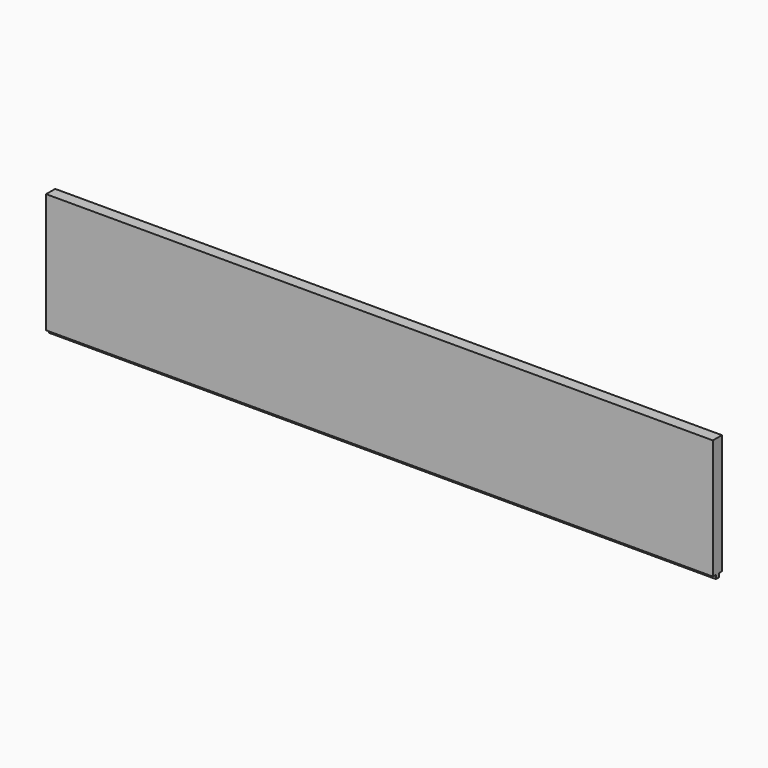
from build123d import *

# Parameters (mm, degrees)
F0_W     = 1116.0125
F0_H     = 207.01
F1_DEPTH = 19.05
F2_W     = 6.35
F2_H     = 6.35
F3_DEPTH = 1116.0135


with BuildPart() as f1:
    # F0 (on Front) → F1 (new body)
    with BuildSketch(Plane.XZ):
        with Locations((-41.97727, -399.287407)):
            Rectangle(F0_W, F0_H)
    extrude(amount=F1_DEPTH)

    # F2 (on face) → F3 (cut, through all)
    with BuildSketch(Plane.YZ.offset(516.02898)):
        with Locations((-15.875, -499.617407)):
            Rectangle(F2_W, F2_H)
        with Locations((-3.175, -499.617407)):
            Rectangle(F2_W, F2_H)
    extrude(amount=-F3_DEPTH, mode=Mode.SUBTRACT)


solid = f1.part
